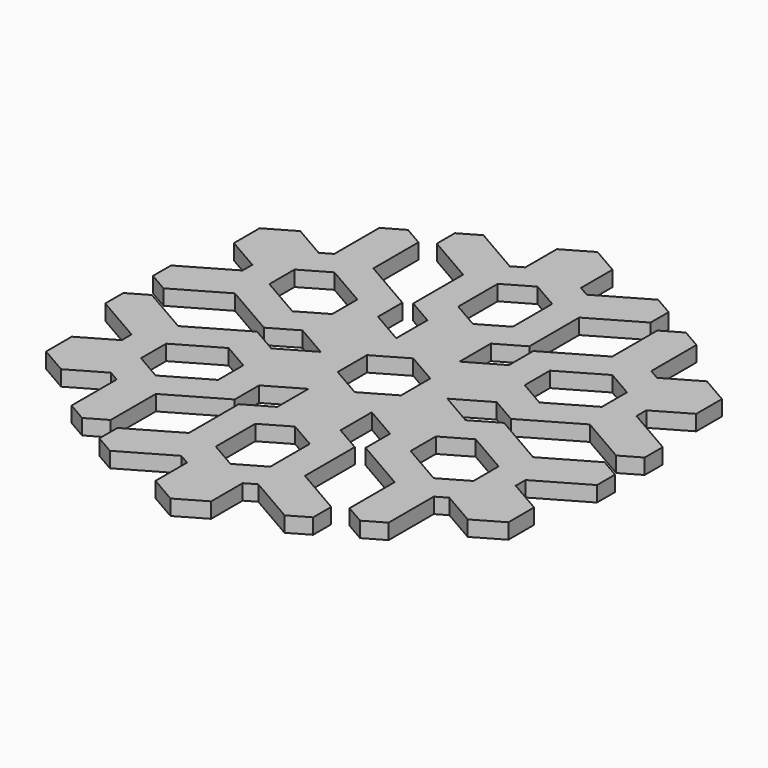
from build123d import *

# Parameters (mm, degrees)
F1_DEPTH = 1.5
F2_SCALE = 2


with BuildPart() as f1:
    # F0 (on Top) → F1 (new body)
    with BuildSketch(Plane.XY):
        Polygon((-6.1687498137, 0), (-3.0843749069, 1.7807646828), (-3.0843749069, 5.3422940483), (-6.3761018887, 7.2427735073), (-6.3761018887, 10.2092925487), (-11.6322247993, 13.243916526), (-13.537250454, 14.3437836005), (-15.4422761086, 13.243916526), (-16.480613925, 12.6444319082), (-19.1907062114, 11.0797593971), (-19.1907062114, 7.9504143749), (-19.1907062114, 6.7514451393), (-19.1907062114, 4.5517109903), (-17.2856805568, 3.4518439158), (-12.0295576462, 0.4172199384), (-9.4604767956, 1.9004794591), align=None)
        Polygon((-16.1907062114, 6.2837617978), (-16.1907062114, 9.3477085895), (-13.537250454, 10.8796819854), (-9.3761018887, 8.4772417411), (-9.3761018887, 5.4132949494), (-12.0295576462, 3.8813215535), align=None, mode=Mode.SUBTRACT)
        Polygon((-3.0843749069, -1.7807646828), (-3.0843749069, 1.7807646828), (-6.1687498137, 0), align=None)
        Polygon((-3.0843749069, 5.3422940483), (-3.0843749069, 1.7807646828), (0, 3.5615293655), align=None)
        Polygon((-3.0843749069, 9.1432529664), (-3.0843749069, 5.3422940483), (0, 3.5615293655), (3.0843749069, 5.3422940483), (3.0843749069, 9.1432529664), (5.6534557575, 10.6265124871), (5.6534557575, 16.6957604418), (5.6534557575, 18.8954945908), (3.7484301028, 19.9953616653), (2.7100922865, 20.5948462831), (0, 22.1595187942), (-2.7100922865, 20.5948462831), (-3.7484301028, 19.9953616653), (-5.6534557575, 18.8954945908), (-5.6534557575, 16.6957604418), (-5.6534557575, 10.6265124871), align=None)
        Polygon((-2.6534557575, 17.1634437832), (0, 18.6954171791), (2.6534557575, 17.1634437832), (2.6534557575, 12.3585632946), (0, 10.8265898988), (-2.6534557575, 12.3585632946), align=None, mode=Mode.SUBTRACT)
        Polygon((-3.0843749069, -1.7807646828), (-6.1687498137, 0), (-9.4604767956, -1.9004794591), (-12.0295576462, -0.4172199384), (-17.2856805568, -3.4518439158), (-19.1907062114, -4.5517109903), (-19.1907062114, -6.7514451393), (-19.1907062114, -7.9504143749), (-19.1907062114, -11.0797593971), (-16.480613925, -12.6444319082), (-15.4422761086, -13.243916526), (-13.537250454, -14.3437836005), (-11.6322247993, -13.243916526), (-6.3761018887, -10.2092925487), (-6.3761018887, -7.2427735073), (-3.0843749069, -5.3422940483), align=None)
        Polygon((-13.537250454, -10.8796819854), (-16.1907062114, -9.3477085895), (-16.1907062114, -6.2837617978), (-12.0295576462, -3.8813215535), (-9.3761018887, -5.4132949494), (-9.3761018887, -8.4772417411), align=None, mode=Mode.SUBTRACT)
        Polygon((3.0843749069, 5.3422940483), (0, 3.5615293655), (3.0843749069, 1.7807646828), align=None)
        Polygon((0, -3.5615293655), (-3.0843749069, -1.7807646828), (-3.0843749069, -5.3422940483), align=None)
        Polygon((6.3761018887, 7.2427735073), (3.0843749069, 5.3422940483), (3.0843749069, 1.7807646828), (6.1687498137, 0), (9.4604767956, 1.9004794591), (12.0295576462, 0.4172199384), (17.2856805568, 3.4518439158), (19.1907062114, 4.5517109903), (19.1907062114, 6.7514451393), (19.1907062114, 7.9504143749), (19.1907062114, 11.0797593971), (16.480613925, 12.6444319082), (15.4422761086, 13.243916526), (13.537250454, 14.3437836005), (11.6322247993, 13.243916526), (6.3761018887, 10.2092925487), align=None)
        Polygon((13.537250454, 10.8796819854), (16.1907062114, 9.3477085895), (16.1907062114, 6.2837617978), (12.0295576462, 3.8813215535), (9.3761018887, 5.4132949494), (9.3761018887, 8.4772417411), align=None, mode=Mode.SUBTRACT)
        Polygon((6.1687498137, 0), (3.0843749069, 1.7807646828), (3.0843749069, -1.7807646828), align=None)
        Polygon((0, -3.5615293655), (-3.0843749069, -5.3422940483), (-3.0843749069, -9.1432529664), (-5.6534557575, -10.6265124871), (-5.6534557575, -16.6957604418), (-5.6534557575, -18.8954945908), (-3.7484301028, -19.9953616653), (-2.7100922865, -20.5948462831), (0, -22.1595187942), (2.7100922865, -20.5948462831), (3.7484301028, -19.9953616653), (5.6534557575, -18.8954945908), (5.6534557575, -16.6957604418), (5.6534557575, -10.6265124871), (3.0843749069, -9.1432529664), (3.0843749069, -5.3422940483), align=None)
        Polygon((2.6534557575, -17.1634437832), (0, -18.6954171791), (-2.6534557575, -17.1634437832), (-2.6534557575, -12.3585632946), (0, -10.8265898988), (2.6534557575, -12.3585632946), align=None, mode=Mode.SUBTRACT)
        Polygon((3.0843749069, -1.7807646828), (0, -3.5615293655), (3.0843749069, -5.3422940483), align=None)
        Polygon((9.4604767956, -1.9004794591), (6.1687498137, 0), (3.0843749069, -1.7807646828), (3.0843749069, -5.3422940483), (6.3761018887, -7.2427735073), (6.3761018887, -10.2092925487), (11.6322247993, -13.243916526), (13.537250454, -14.3437836005), (15.4422761086, -13.243916526), (16.480613925, -12.6444319082), (19.1907062114, -11.0797593971), (19.1907062114, -7.9504143749), (19.1907062114, -6.7514451393), (19.1907062114, -4.5517109903), (17.2856805568, -3.4518439158), (12.0295576462, -0.4172199384), align=None)
        Polygon((16.1907062114, -6.2837617978), (16.1907062114, -9.3477085895), (13.537250454, -10.8796819854), (9.3761018887, -8.4772417411), (9.3761018887, -5.4132949494), (12.0295576462, -3.8813215535), align=None, mode=Mode.SUBTRACT)
        Polygon((-10.4125291109, 19.4434127235), (-5.6534557575, 16.6957604418), (-5.6534557575, 18.8954945908), (-3.7484301028, 19.9953616653), (-8.5075034563, 22.743013947), (-10.4125291109, 21.6431468725), align=None)
        Polygon((-13.537250454, 14.3437836005), (-11.6322247993, 13.243916526), (-11.6322247993, 18.7392210894), (-13.537250454, 19.839088164), (-15.4422761086, 18.7392210894), (-15.4422761086, 13.243916526), align=None)
        Polygon((-22.0447539102, 0.704191634), (-17.2856805568, 3.4518439158), (-19.1907062114, 4.5517109903), (-19.1907062114, 6.7514451393), (-23.9497795649, 4.0037928576), (-23.9497795649, 1.8040587086), align=None)
        Polygon((-19.1907062114, -4.5517109903), (-17.2856805568, -3.4518439158), (-22.0447539102, -0.704191634), (-23.9497795649, -1.8040587086), (-23.9497795649, -4.0037928576), (-19.1907062114, -6.7514451393), align=None)
        Polygon((5.6534557575, 18.8954945908), (5.6534557575, 16.6957604418), (10.4125291109, 19.4434127235), (10.4125291109, 21.6431468725), (8.5075034563, 22.743013947), (3.7484301028, 19.9953616653), align=None)
        Polygon((11.6322247993, 18.7392210894), (11.6322247993, 13.243916526), (13.537250454, 14.3437836005), (15.4422761086, 13.243916526), (15.4422761086, 18.7392210894), (13.537250454, 19.839088164), align=None)
        Polygon((-11.6322247993, -18.7392210894), (-11.6322247993, -13.243916526), (-13.537250454, -14.3437836005), (-15.4422761086, -13.243916526), (-15.4422761086, -18.7392210894), (-13.537250454, -19.839088164), align=None)
        Polygon((-5.6534557575, -18.8954945908), (-5.6534557575, -16.6957604418), (-10.4125291109, -19.4434127235), (-10.4125291109, -21.6431468725), (-8.5075034563, -22.743013947), (-3.7484301028, -19.9953616653), align=None)
        Polygon((22.0447539102, -0.704191634), (17.2856805568, -3.4518439158), (19.1907062114, -4.5517109903), (19.1907062114, -6.7514451393), (23.9497795649, -4.0037928576), (23.9497795649, -1.8040587086), align=None)
        Polygon((19.1907062114, 4.5517109903), (17.2856805568, 3.4518439158), (22.0447539102, 0.704191634), (23.9497795649, 1.8040587086), (23.9497795649, 4.0037928576), (19.1907062114, 6.7514451393), align=None)
        Polygon((10.4125291109, -19.4434127235), (5.6534557575, -16.6957604418), (5.6534557575, -18.8954945908), (3.7484301028, -19.9953616653), (8.5075034563, -22.743013947), (10.4125291109, -21.6431468725), align=None)
        Polygon((13.537250454, -14.3437836005), (11.6322247993, -13.243916526), (11.6322247993, -18.7392210894), (13.537250454, -19.839088164), (15.4422761086, -18.7392210894), (15.4422761086, -13.243916526), align=None)
        Polygon((-2.7100922865, 24.4353274889), (-2.7100922865, 20.5948462831), (0, 22.1595187942), (2.7100922865, 20.5948462831), (2.7100922865, 24.4353274889), (0, 26), align=None)
        Polygon((-19.1907062114, 11.0797593971), (-16.480613925, 12.6444319082), (-19.8065682119, 14.5646725111), (-22.5166604984, 13), (-22.5166604984, 9.8706549778), (-19.1907062114, 7.9504143749), align=None)
        Polygon((-19.1907062114, -11.0797593971), (-19.1907062114, -7.9504143749), (-22.5166604984, -9.8706549778), (-22.5166604984, -13), (-19.8065682119, -14.5646725111), (-16.480613925, -12.6444319082), align=None)
        Polygon((19.8065682119, 14.5646725111), (16.480613925, 12.6444319082), (19.1907062114, 11.0797593971), (19.1907062114, 7.9504143749), (22.5166604984, 9.8706549778), (22.5166604984, 13), align=None)
        Polygon((0, -22.1595187942), (-2.7100922865, -20.5948462831), (-2.7100922865, -24.4353274889), (0, -26), (2.7100922865, -24.4353274889), (2.7100922865, -20.5948462831), align=None)
        Polygon((22.5166604984, -9.8706549778), (19.1907062114, -7.9504143749), (19.1907062114, -11.0797593971), (16.480613925, -12.6444319082), (19.8065682119, -14.5646725111), (22.5166604984, -13), align=None)
    extrude(amount=F1_DEPTH)


with BuildPart() as f1_1:
    # F2: moved
    add(f1.part.scale(F2_SCALE))


solid = f1_1.part
